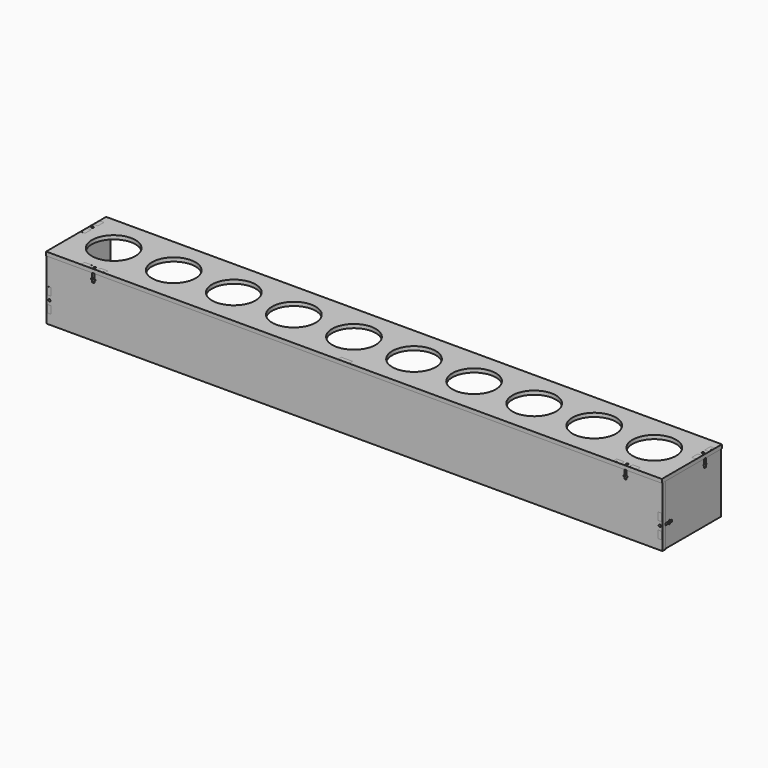
from build123d import *

# Parameters (mm, degrees)
F0_W        = 820
F0_H        = 100
F0_R        = 29
F1_DEPTH    = 5
F3_W        = 9.983328
F3_H        = 5.018278
F3_W_2      = 9.983894
F4_DEPTH    = 5
F7_W        = 9.983328
F7_H        = 5.018278
F7_W_2      = 5.018278
F7_H_2      = 9.983328
F7_W_3      = 9.983894
F8_DEPTH    = 5
F12_D       = 3.1
F12_DEPTH   = 12
F12_TIP     = 0.9313339595
F12_2_D     = 3.1
F12_2_DEPTH = 12
F12_2_TIP   = 0.9313339595
F12_3_D     = 3.1
F12_3_DEPTH = 12
F12_3_TIP   = 0.9313339595
F12_4_D     = 3.1
F12_4_DEPTH = 12
F12_4_TIP   = 0.9313339595
F14_D       = 3.1
F14_DEPTH   = 12
F14_TIP     = 0.9313339595
F14_2_D     = 3.1
F14_2_DEPTH = 12
F14_2_TIP   = 0.9313339595
F14_3_D     = 3.1
F14_3_DEPTH = 12
F14_3_TIP   = 0.9313339595


with BuildPart() as f1:
    # F0 (on Top) → F1 (new body)
    with BuildSketch(Plane.XY):
        with Locations((286.3717393592, 0)):
            Rectangle(F0_W, F0_H)
        with Locations((-73.6282606408, 0)):
            Circle(F0_R, mode=Mode.SUBTRACT)
        with Locations((6.3717393592, 0)):
            Circle(F0_R, mode=Mode.SUBTRACT)
        with Locations((86.3717393592, 0)):
            Circle(F0_R, mode=Mode.SUBTRACT)
        with Locations((166.3717393592, 0)):
            Circle(F0_R, mode=Mode.SUBTRACT)
        with Locations((246.3717393592, 0)):
            Circle(F0_R, mode=Mode.SUBTRACT)
        with Locations((326.3717393592, 0)):
            Circle(F0_R, mode=Mode.SUBTRACT)
        with Locations((406.3717393592, 0)):
            Circle(F0_R, mode=Mode.SUBTRACT)
        with Locations((486.3717393592, 0)):
            Circle(F0_R, mode=Mode.SUBTRACT)
        with Locations((566.3717393592, 0)):
            Circle(F0_R, mode=Mode.SUBTRACT)
        with Locations((646.3717393592, 0)):
            Circle(F0_R, mode=Mode.SUBTRACT)
    extrude(amount=F1_DEPTH)


with BuildPart() as f4:
    # F3 (on offset) → F4 (new body)
    with BuildSketch(Plane.XZ.offset(49)):
        Polygon((-77.2040486336, 0), (-123.6282606408, 0), (-123.6282606408, -80), (696.3717393592, -80), (696.3717393592, 0), (662.8278503592, 0), (652.8439563592, 0), (648.6461833592, 0), (648.6461833592, -7.390694), (649.9071523592, -7.390694), (649.9071523592, -9.039944), (648.6461833592, -9.039944), (648.6461833592, -11.915054), (645.7534053592, -11.915054), (645.7534053592, -9.039944), (644.4921543592, -9.039944), (644.4921543592, -7.390694), (645.7534053592, -7.390694), (645.7534053592, 0), (641.5550673592, 0), (631.5717393592, 0), (279.6981477737, 0), (279.6981477737, 5), (264.6981477737, 5), (264.6981477737, 0), (-28.4282606408, 0), (-45.9479376336, 0), (-53.6282606408, 0), (-55.9318316336, 0), (-60.1296046336, 0), (-60.1296046336, -7.390694), (-58.8686356336, -7.390694), (-58.8686356336, -9.039944), (-60.1296046336, -9.039944), (-60.1296046336, -11.915054), (-63.0223826336, -11.915054), (-63.0223826336, -9.039944), (-64.2836336336, -9.039944), (-64.2836336336, -7.390694), (-63.0223826336, -7.390694), (-63.0223826336, 0), (-67.2207206336, 0), align=None)
        with Locations((-72.2123846336, 2.509139)):
            Rectangle(F3_W, F3_H)
        with Locations((657.8359033592, 2.509139)):
            Rectangle(F3_W_2, F3_H)
        Polygon((-55.9318316336, 5.018278), (-55.9318316336, 0), (-53.6282606408, 0), (-45.9479376336, 0), (-45.9479376336, 5.018278), align=None)
        with Locations((636.5634033592, 2.509139)):
            Rectangle(F3_W, F3_H)
    extrude(amount=-F4_DEPTH)


with BuildPart() as f1_1:
    add(f1.part)

    # F5: cut F4
    add(f4.part, mode=Mode.SUBTRACT)


with BuildPart() as f8:
    # F7 (on offset) → F8 (new body)
    with BuildSketch(Plane(origin=(-122.6282606408, 0, 0), x_dir=(0, -1, 0), z_dir=(-1, 0, 0))):
        Polygon((-50, -80), (44, -80), (44, -67.0561060647), (44, -66.5942854106), (44, -57.0722120647), (44, -52.8744390647), (36.609306, -52.8744390647), (36.609306, -54.1354080647), (34.960056, -54.1354080647), (34.960056, -52.8744390647), (32.084946, -52.8744390647), (32.084946, -49.9816610647), (34.960056, -49.9816610647), (34.960056, -48.7204100647), (36.609306, -48.7204100647), (36.609306, -49.9816610647), (44, -49.9816610647), (44, -45.7833230647), (44, -35.7999950647), (44, 0), (-7.3654707183, 0), (-17.3493647183, 0), (-21.5471377183, 0), (-21.5471377183, -7.390694), (-20.2861687183, -7.390694), (-20.2861687183, -9.039944), (-21.5471377183, -9.039944), (-21.5471377183, -11.915054), (-24.4399157183, -11.915054), (-24.4399157183, -9.039944), (-25.7011667183, -9.039944), (-25.7011667183, -7.390694), (-24.4399157183, -7.390694), (-24.4399157183, 0), (-27.2431634367, 0), (-28.6382537183, 0), (-38.6215817183, 0), (-50, 0), align=None)
        Polygon((44, -66.5942854106), (44, -67.0561060647), (49.018278, -67.0561060647), (49.018278, -57.0722120647), (44, -57.0722120647), align=None)
        with Locations((-33.6299177183, 2.509139)):
            Rectangle(F7_W, F7_H)
        with Locations((46.509139, -40.7916590647)):
            Rectangle(F7_W_2, F7_H_2)
        with Locations((-12.3574177183, 2.509139)):
            Rectangle(F7_W_3, F7_H)
    extrude(amount=-F8_DEPTH)


with BuildPart() as f9_1:
    # F9: copy of F8
    add(f8.part.moved(Location((813, 0, 0))))


with BuildPart() as f1_2:
    add(f1_1.part)

    # F10: cut F9_1, F8
    add(f9_1.part, mode=Mode.SUBTRACT)
    add(f8.part, mode=Mode.SUBTRACT)

    # F12
    with Locations(Plane.XY.offset(5)):
        with Locations((-120.1282606408, 22.9938092183), (-61.5762761336, -46.5), (692.8717393592, 22.9938092183), (647.1995118592, -46.5)):
            Hole(F12_D / 2, depth=F12_DEPTH)
            with Locations((0, 0, -(F12_DEPTH + F12_TIP / 2))):  # 118° drill point
                Cone(0, F12_D / 2, F12_TIP, mode=Mode.SUBTRACT)


with BuildPart() as f4_1:
    add(f4.part)

    # F12#2
    with Locations(Plane.XY.offset(5)):
        with Locations((-120.1282606408, 22.9938092183), (-61.5762761336, -46.5), (692.8717393592, 22.9938092183), (647.1995118592, -46.5)):
            Hole(F12_2_D / 2, depth=F12_2_DEPTH)
            with Locations((0, 0, -(F12_2_DEPTH + F12_2_TIP / 2))):  # 118° drill point
                Cone(0, F12_2_D / 2, F12_2_TIP, mode=Mode.SUBTRACT)

    # F14
    with Locations(Plane.XZ.offset(49)):
        with Locations((-120.1282606408, -51.4277675647), (692.8717393592, -51.4277675647)):
            Hole(F14_D / 2, depth=F14_DEPTH)
            with Locations((0, 0, -(F14_DEPTH + F14_TIP / 2))):  # 118° drill point
                Cone(0, F14_D / 2, F14_TIP, mode=Mode.SUBTRACT)


with BuildPart() as f8_1:
    add(f8.part)

    # F12#3
    with Locations(Plane.XY.offset(5)):
        with Locations((-120.1282606408, 22.9938092183), (-61.5762761336, -46.5), (692.8717393592, 22.9938092183), (647.1995118592, -46.5)):
            Hole(F12_3_D / 2, depth=F12_3_DEPTH)
            with Locations((0, 0, -(F12_3_DEPTH + F12_3_TIP / 2))):  # 118° drill point
                Cone(0, F12_3_D / 2, F12_3_TIP, mode=Mode.SUBTRACT)

    # F14#2
    with Locations(Plane.XZ.offset(49)):
        with Locations((-120.1282606408, -51.4277675647), (692.8717393592, -51.4277675647)):
            Hole(F14_2_D / 2, depth=F14_2_DEPTH)
            with Locations((0, 0, -(F14_2_DEPTH + F14_2_TIP / 2))):  # 118° drill point
                Cone(0, F14_2_D / 2, F14_2_TIP, mode=Mode.SUBTRACT)


with BuildPart() as f9_1_1:
    add(f9_1.part)

    # F12#4
    with Locations(Plane.XY.offset(5)):
        with Locations((-120.1282606408, 22.9938092183), (-61.5762761336, -46.5), (692.8717393592, 22.9938092183), (647.1995118592, -46.5)):
            Hole(F12_4_D / 2, depth=F12_4_DEPTH)
            with Locations((0, 0, -(F12_4_DEPTH + F12_4_TIP / 2))):  # 118° drill point
                Cone(0, F12_4_D / 2, F12_4_TIP, mode=Mode.SUBTRACT)

    # F14#3
    with Locations(Plane.XZ.offset(49)):
        with Locations((-120.1282606408, -51.4277675647), (692.8717393592, -51.4277675647)):
            Hole(F14_3_D / 2, depth=F14_3_DEPTH)
            with Locations((0, 0, -(F14_3_DEPTH + F14_3_TIP / 2))):  # 118° drill point
                Cone(0, F14_3_D / 2, F14_3_TIP, mode=Mode.SUBTRACT)


with BuildPart() as f4_2:
    add(f4_1.part)

    # F15: cut F9_1, F8
    add(f9_1_1.part, mode=Mode.SUBTRACT)
    add(f8_1.part, mode=Mode.SUBTRACT)


solid = Compound([f1_2.part, f8_1.part, f9_1_1.part, f4_2.part])
